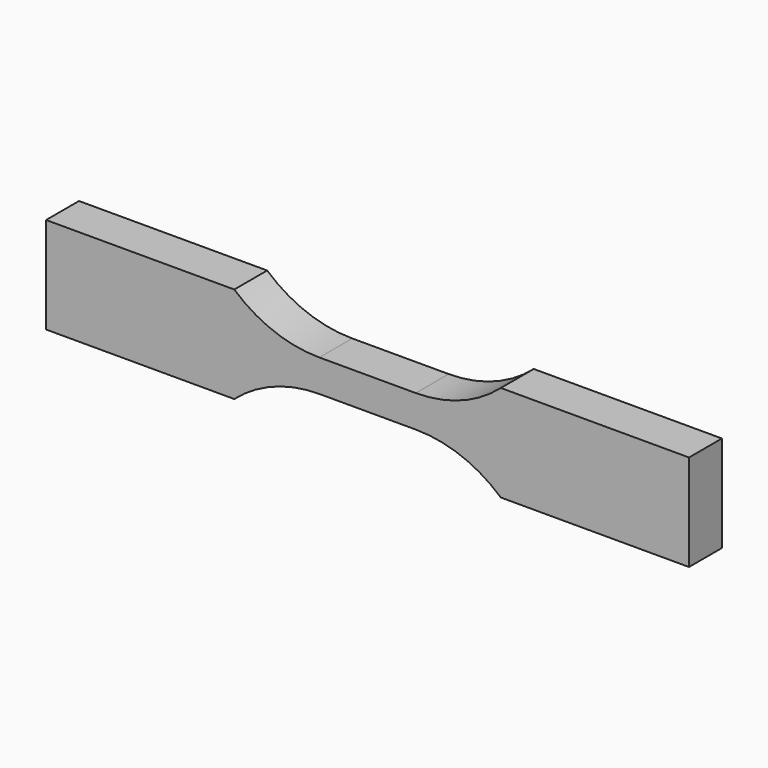
from build123d import *

# Parameters (mm, degrees)
F1_DEPTH = 4.064


with BuildPart() as f1:
    # F0 (on Front) → F1 (new body)
    with BuildSketch(Plane.XZ):
        with BuildLine():
            Line((4.7625, 1.5875), (0, 1.5875))
            Line((0, 1.5875), (-4.7625, 1.5875))
            ThreePointArc((-4.7625, 1.5875), (-9.252628, 2.407738), (-13.16276, 4.7625))
            Line((-13.16276, 4.7625), (-31.75, 4.7625))
            Line((-31.75, 4.7625), (-31.75, 0))
            Line((-31.75, 0), (-31.75, -4.7625))
            Line((-31.75, -4.7625), (-13.16276, -4.7625))
            ThreePointArc((-13.16276, -4.7625), (-9.252628, -2.407738), (-4.7625, -1.5875))
            Line((-4.7625, -1.5875), (0, -1.5875))
            Line((0, -1.5875), (4.7625, -1.5875))
            ThreePointArc((4.7625, -1.5875), (9.252628, -2.407738), (13.16276, -4.7625))
            Line((13.16276, -4.7625), (31.75, -4.7625))
            Line((31.75, -4.7625), (31.75, 0))
            Line((31.75, 0), (31.75, 4.7625))
            Line((31.75, 4.7625), (13.16276, 4.7625))
            ThreePointArc((13.16276, 4.7625), (9.252628, 2.407738), (4.7625, 1.5875))
        make_face()
    extrude(amount=F1_DEPTH)


solid = f1.part
